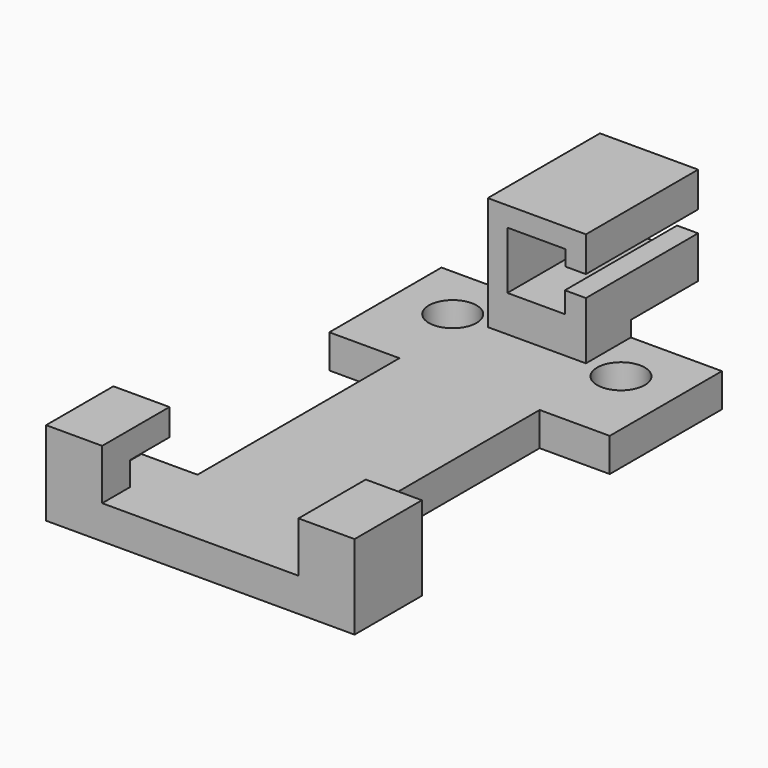
from build123d import *

# Parameters (mm, degrees)
SKETCH003_R      = 1.7
EXTRUDE003_DEPTH = 2.4
BOX001_W         = 7
BOX001_H         = 4
BOX001_DEPTH     = 3
SKETCH001_W      = 2.5
SKETCH001_H      = 8
EXTRUDE001_DEPTH = 9
BOX_W            = 14
BOX_H            = 15
BOX_DEPTH        = 8.5
SKETCH_W         = 18
SKETCH_H         = 23
EXTRUDE_DEPTH    = 1.7
SKETCH002_W      = 22
SKETCH002_H      = 6
EXTRUDE002_DEPTH = 6
EXTRUDE004_DEPTH = 10
SKETCH005_W      = 7
SKETCH005_H      = 7
EXTRUDE005_DEPTH = 10


with BuildPart() as extrude003:
    # Sketch003 → Extrude003 (new body)
    with BuildSketch(Plane.XY):
        Polygon((-10, 20), (10, 20), (10, 10), (5, 10), (5, -8), (-5, -8), (-5, 10), (-10, 10), align=None)
        with Locations((-6, 16)):
            Circle(SKETCH003_R, mode=Mode.SUBTRACT)
        with Locations((6, 16)):
            Circle(SKETCH003_R, mode=Mode.SUBTRACT)
    extrude(amount=-EXTRUDE003_DEPTH)


with BuildPart() as extrude003_1:
    # Extrude003 placement: moved
    add(extrude003.part.moved(Location((0, 0, -0.1))))


with BuildPart() as cube001:
    # Box001 → Box001 (new body)
    with BuildSketch(Plane(origin=(-3.5, 16, -1), x_dir=(1, 0, 0), z_dir=(0, 0, 1))):
        with Locations((3.5, 2)):
            Rectangle(BOX001_W, BOX001_H)
    extrude(amount=BOX001_DEPTH)


with BuildPart() as extrude001:
    # Sketch001 → Extrude001 (new body)
    with BuildSketch(Plane.XY):
        with Locations((7.75, 5.5)):
            Rectangle(SKETCH001_W, SKETCH001_H)
    extrude(amount=EXTRUDE001_DEPTH)


with BuildPart() as extrude001_1:
    # Extrude001 placement: moved
    add(extrude001.part.moved(Location((0, 0, 1.6))))


with BuildPart() as part_mirroring:
    # Part__Mirroring: instance of Extrude001
    add(extrude001_1.part.mirror(Plane(origin=(0, 0, 0), x_dir=(0, -1, 0), z_dir=(1, 0, 0))))


with BuildPart() as cube:
    # Box → Box (new body)
    with BuildSketch(Plane(origin=(-7, -16.5, -0.1), x_dir=(1, 0, 0), z_dir=(0, 0, 1))):
        with Locations((7, 7.5)):
            Rectangle(BOX_W, BOX_H)
    extrude(amount=BOX_DEPTH)


with BuildPart() as fusion:
    # Sketch → Extrude (new body)
    with BuildSketch(Plane.XY):
        Rectangle(SKETCH_W, SKETCH_H)
    extrude(amount=EXTRUDE_DEPTH)


with BuildPart() as fusion_1:
    # Extrude placement: moved
    add(fusion.part.moved(Location((0, 0, -0.1))))

    # Fusion: union Part__Mirroring, Extrude001, Cube
    add(part_mirroring.part)
    add(extrude001_1.part)
    add(cube.part)


with BuildPart() as cut:
    # Sketch002 → Extrude002 (new body)
    with BuildSketch(Plane.XY):
        with Locations((0, -11)):
            Rectangle(SKETCH002_W, SKETCH002_H)
    extrude(amount=EXTRUDE002_DEPTH)


with BuildPart() as cut_1:
    # Extrude002 placement: moved
    add(cut.part.moved(Location((0, 0, -2.5))))

    # Cut: cut Fusion
    add(fusion_1.part, mode=Mode.SUBTRACT)


with BuildPart() as extrude004:
    # Sketch004 → Extrude004 (new body)
    with BuildSketch(Plane.XZ):
        Polygon((-2.1, 2.5), (2, 2.5), (2, 4), (5, 4), (5, 5.5), (2.05, 5.5), (2.05, 6.6), (-2.1, 6.6), align=None)
    extrude(amount=EXTRUDE004_DEPTH)


with BuildPart() as fusion002:
    # Sketch005 → Extrude005 (new body)
    with BuildSketch(Plane.XZ):
        with Locations((0, 4.5)):
            Rectangle(SKETCH005_W, SKETCH005_H)
    extrude(amount=EXTRUDE005_DEPTH)

    # Cut001: cut Extrude004
    add(extrude004.part, mode=Mode.SUBTRACT)


with BuildPart() as fusion002_1:
    # Cut001 placement: moved
    add(fusion002.part.moved(Location((0, 26, 0))))

    # Fusion001: union Extrude003
    add(extrude003_1.part)

    # Fusion002: union Extrude003, Cube001, Cut
    add(extrude003_1.part)
    add(cube001.part)
    add(cut_1.part)


with BuildPart() as fusion003:
    # Fusion003 base: copy of Cut
    add(cut_1.part)

    # Fusion003: union Extrude003
    add(extrude003_1.part)


solid = Compound([fusion002_1.part, fusion003.part])
